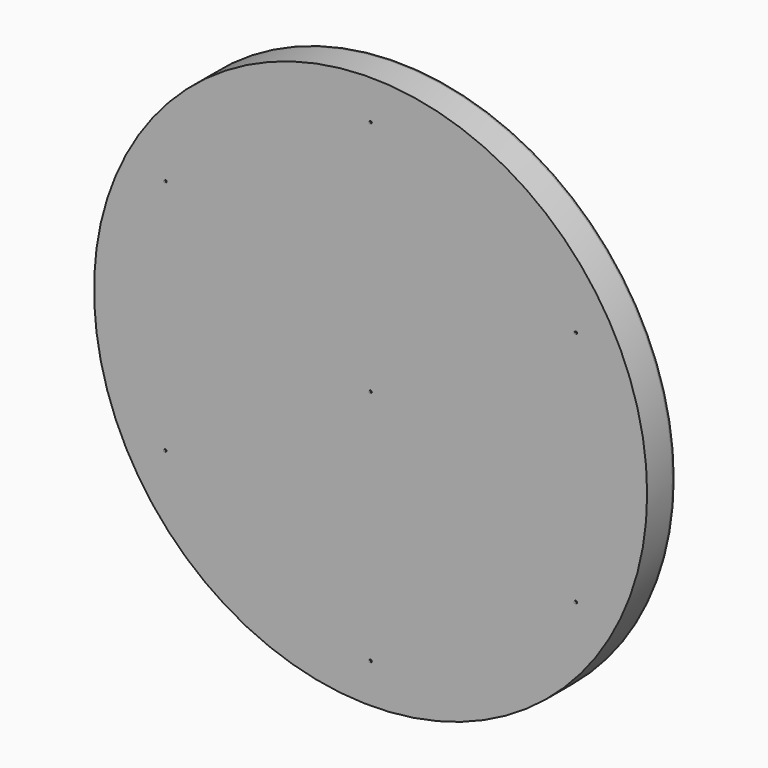
from build123d import *

# Parameters (mm, degrees)
F0_R     = 35
F1_DEPTH = 0.2
F2_R     = 35
F3_DEPTH = 4
F4_R     = 0.15
F5_DEPTH = 0.1


with BuildPart() as f1:
    # F0 (on Front) → F1 (new body)
    with BuildSketch(Plane.XZ):
        Circle(F0_R)
    extrude(amount=F1_DEPTH)


with BuildPart() as f3:
    # F2 (on face) → F3 (new body)
    with BuildSketch(Plane.XZ.offset(0.2)):
        Circle(F2_R)
    extrude(amount=F3_DEPTH)

    # F4 (on face) → F5 (join)
    with BuildSketch(Plane.XZ.offset(4.2)):
        with Locations((0, 30)):
            Circle(F4_R)
        with Locations((-25.980762, 15)):
            Circle(F4_R)
        with Locations((-25.980762, -15)):
            Circle(F4_R)
        with Locations((0, -30)):
            Circle(F4_R)
        with Locations((25.980762, -15)):
            Circle(F4_R)
        with Locations((25.980762, 15)):
            Circle(F4_R)
        Circle(F4_R)
    extrude(amount=F5_DEPTH)


solid = Compound([f1.part, f3.part])
